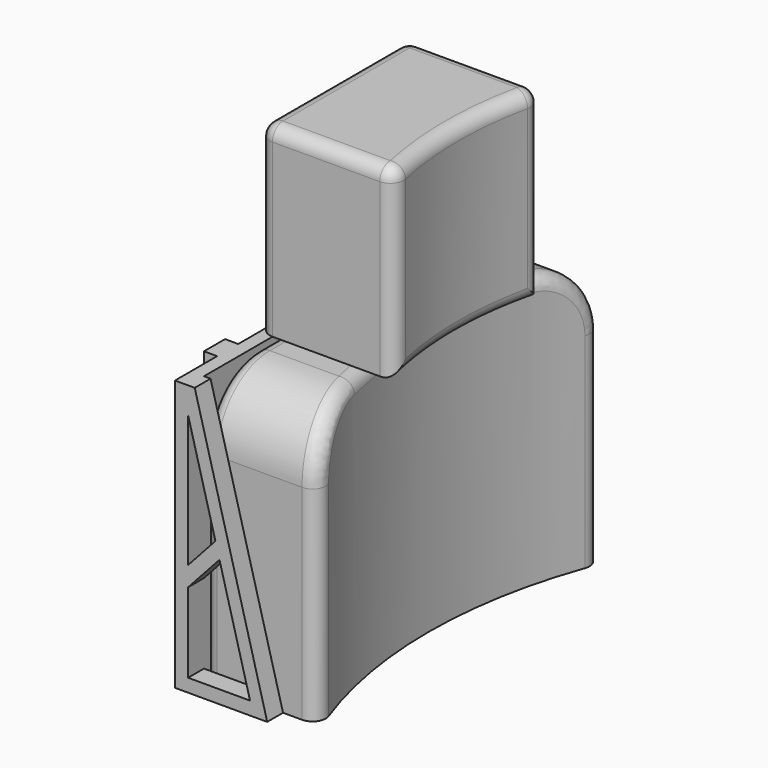
from build123d import *

# Parameters (mm, degrees)
F1_DEPTH  = 15
F2_W      = 7
F2_H      = 27
F3_DEPTH  = 25
F6_DEPTH  = 20
F8_W      = 1
F8_H      = 2
F9_DEPTH  = 20.5262794416
F10_W     = 9
F10_H     = 27
F11_DEPTH = 20.5262794416
F12_R     = 35.75
F13_DEPTH = 30
F15_R     = 5
F16_R     = 1
F17_W     = 11
F17_H     = 14
F18_DEPTH = 14
F19_R     = 27.5
F20_DEPTH = 60
F22_R     = 1


with BuildPart() as f1:
    # F0 (on Front) → F1 (new body, symmetric)
    with BuildSketch(Plane.XZ):
        Polygon((0, 20.5262794416), (0, 0), (7, 0), (1.5, 20.5262794416), align=None)
    extrude(amount=F1_DEPTH, both=True)


with BuildPart() as f3:
    # F2 (on Top) → F3 (new body)
    with BuildSketch(Plane.XY):
        with Locations((4.5, 0)):
            Rectangle(F2_W, F2_H)
    extrude(amount=F3_DEPTH)


with BuildPart() as f6:
    # F4 (on Front) → F6 (new body, symmetric)
    with BuildSketch(Plane.XZ):
        Polygon((3.0705523608, 10.8011949299), (1, 18.5286015403), (1, 8.5286015403), align=None)
    extrude(amount=F6_DEPTH, both=True)


with BuildPart() as f6b:
    # F5 (on Front) → F6, piece 2 (new body, symmetric)
    with BuildSketch(Plane.XZ):
        Polygon((3.377991262, 9.6538173306), (1, 7.0437856671), (1, 1), (5.6967746272, 1), align=None)
    extrude(amount=F6_DEPTH, both=True)


with BuildPart() as f1_1:
    add(f1.part)

    # F7: cut F6b, F6, F3
    add(f6b.part, mode=Mode.SUBTRACT)
    add(f6.part, mode=Mode.SUBTRACT)
    add(f3.part, mode=Mode.SUBTRACT)

    # F8 (on face) → F9 (join, through all)
    with BuildSketch(Plane.XY.offset(20.5262794416)):
        with Locations((-0.5, -10)):
            Rectangle(F8_W, F8_H)
        with Locations((-0.5, 10)):
            Rectangle(F8_W, F8_H)
    extrude(amount=-F9_DEPTH)



with BuildPart() as f11:
    # F10 (on Top) → F11 (new body, through all)
    with BuildSketch(Plane.XY):
        with Locations((5.5, 0)):
            Rectangle(F10_W, F10_H)
    extrude(amount=F11_DEPTH)


with BuildPart() as f13:
    # F12 (on Top) → F13 (new body)
    with BuildSketch(Plane.XY):
        with Locations((43, 0)):
            Circle(F12_R)
    extrude(amount=F13_DEPTH)


with BuildPart() as f11_1:
    add(f11.part)

    # F14: cut F13
    add(f13.part, mode=Mode.SUBTRACT)

    # F15
    f15_edges = [f11_1.edges().sort_by_distance(p)[0] for p in [
        (5.448471, -13.5, 20.526279),
        (5.448471, 13.5, 20.526279),
    ]]
    fillet(f15_edges, radius=F15_R)

    # F16
    f16_edges = [f11_1.edges().sort_by_distance(p)[0] for p in [
        (9.896941, -13.5, 7.76314),
        (1, -13.5, 7.76314),
    ]]
    fillet(f16_edges, radius=F16_R)


with BuildPart() as f1_2:
    add(f1_1.part)

    add(f11_1.part)  # F18 merges F11
    # F17 (on face) → F18 (join)
    with BuildSketch(Plane.XY.offset(20.5262794416)):
        with Locations((5.5, 0)):
            Rectangle(F17_W, F17_H)
    extrude(amount=F18_DEPTH)


with BuildPart() as f20:
    # F19 (on Top) → F20 (new body)
    with BuildSketch(Plane.XY):
        with Locations((37, 0)):
            Circle(F19_R)
    extrude(amount=F20_DEPTH)


with BuildPart() as f1_3:
    add(f1_2.part)

    # F21: cut F20
    add(f20.part, mode=Mode.SUBTRACT)

    # F22
    f22_edges = [f1_3.edges().sort_by_distance(p)[0] for p in [
        (10.405828, 7, 27.526279),
        (9.5, 0, 20.526279),
        (10.405828, -7, 27.526279),
        (9.5, 0, 34.526279),
        (5.202914, 7, 34.526279),
        (5.202914, -7, 34.526279),
        (0, 0, 34.526279),
        (0, 7, 27.526279),
        (0, -7, 27.526279),
    ]]
    fillet(f22_edges, radius=F22_R)


solid = f1_3.part
